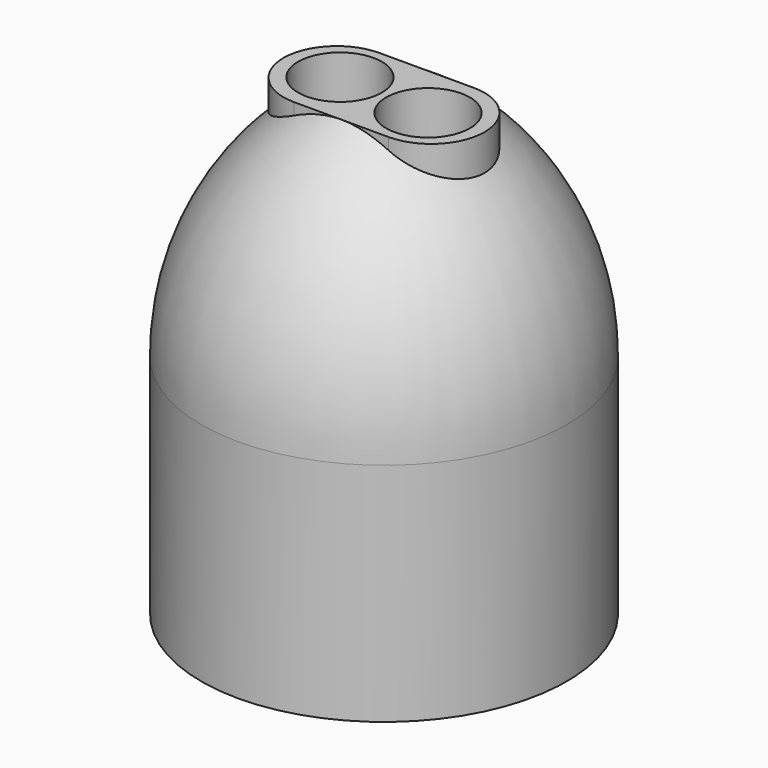
from build123d import *

# Parameters (mm, degrees)
SKETCH002_R  = 2.75
PAD001_DEPTH = 30
ARRAY_COUNT  = 2
SKETCH_R     = 11
PAD_DEPTH    = 15
PAD002_DEPTH = 30


with BuildPart() as array:
    # Sketch002 → Pad001 (new body)
    with BuildSketch(Plane.XY):
        with Locations((3, -0.136076)):
            Circle(SKETCH002_R)
    extrude(amount=PAD001_DEPTH)

    # Array: Array ×2 about axis
    array_axis = Axis((0, 0, 0), (0, 0, 1))


with BuildPart() as array_1:
    add(array.part)
    for i in range(1, ARRAY_COUNT):
        add(array.part.rotate(array_axis, i * 360 / ARRAY_COUNT))


with BuildPart() as body001:
    # Sketch001 → Revolution (revolve)
    with BuildSketch(Plane.XZ):
        with BuildLine():
            Line((0, 15), (11, 15))
            ThreePointArc((11, 15), (8.455767, 22.035624), (2, 25.816654))
            Line((2, 25.816654), (0, 25.816654))
            Line((0, 25.816654), (0, 15))
        make_face()
    revolve(axis=Axis((0, 0, 0), (0, 0, 1)))


with BuildPart() as fusion001:
    # Sketch → Pad (new body)
    with BuildSketch(Plane.XY):
        Circle(SKETCH_R)
    extrude(amount=PAD_DEPTH)

    # Fusion001: union Body001
    add(body001.part)


with BuildPart() as body003:
    # Sketch003 → Revolution001 (revolve)
    with BuildSketch(Plane.YZ):
        with BuildLine():
            Line((0, 0), (12, 0))
            Line((12, 0), (12, 14.837809))
            ThreePointArc((12, 14.837809), (9.767649, 23.550009), (3.5, 30))
            Line((0, 30), (3.5, 30))
            Line((0, 30), (0, 0))
        make_face()
    revolve(axis=Axis((0, 0, 0), (0, 0, 1)))


with BuildPart() as cut001:
    # Sketch004 → Pad002 (new body)
    with BuildSketch(Plane.XY):
        with BuildLine():
            Line((-3.1, 3.5), (3.1, 3.5))
            ThreePointArc((3.100018, -3.5), (6.6, 9e-06), (3.1, 3.5))
            Line((-3.100018, -3.5), (3.100018, -3.5))
            ThreePointArc((-3.1, 3.5), (-6.6, 9e-06), (-3.100018, -3.5))
        make_face()
    extrude(amount=PAD002_DEPTH)

    # Fusion: union Body003
    add(body003.part)

    # Cut: cut Fusion001
    add(fusion001.part, mode=Mode.SUBTRACT)

    # Cut001: cut Array
    add(array_1.part, mode=Mode.SUBTRACT)


solid = cut001.part
